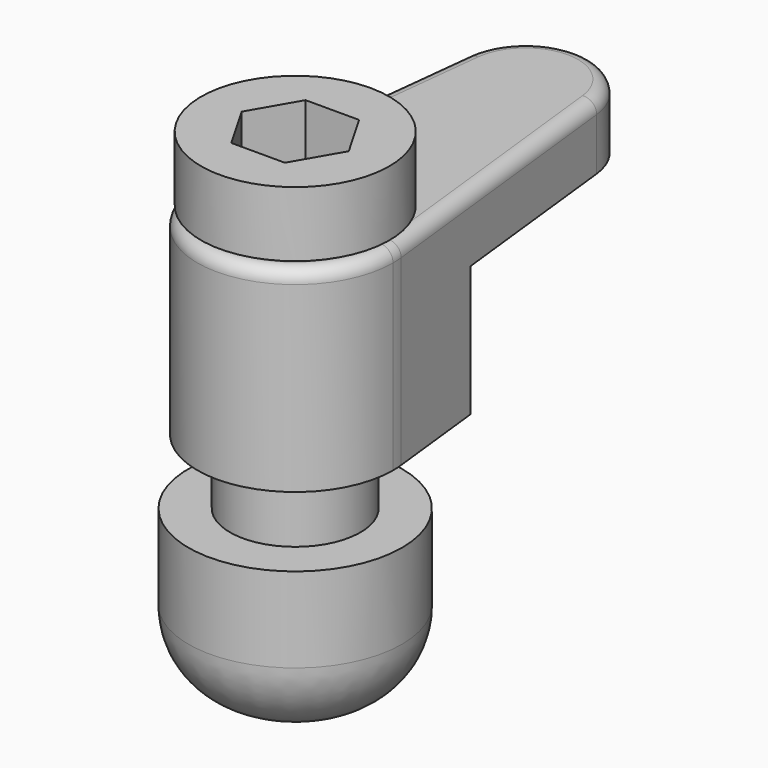
from build123d import *

# Parameters (mm, degrees)
F0_R          = 6.35
F1_DEPTH      = 19.05
F2_W          = 33.4682341514
F2_H          = 12.7
F3_DEPTH      = 25.4
F3_DEPTH_BACK = 25.4
F4_R          = 1.27
F8_DEPTH      = 5.08


with BuildPart() as f1:
    # F0 (on Top) → F1 (new body)
    with BuildSketch(Plane.XY):
        with BuildLine():
            Line((-9.2955619432, 2.0780166408), (-9.525, 0))
            ThreePointArc((-9.525, 0), (0, -9.525), (9.525, 0))
            ThreePointArc((9.525, 0), (9.5100605616, 0.5332664573), (9.4652891098, 1.0648601164))
            ThreePointArc((9.4652891098, 1.0648601164), (0.5136373852, 9.5111409219), (-9.2955619432, 2.0780166408))
        make_face()
        Circle(F0_R, mode=Mode.SUBTRACT)
        with BuildLine():
            ThreePointArc((-9.2955619432, 2.0780166408), (-9.4674667285, 1.0453223165), (-9.525, 0))
            Line((-9.525, 0), (-9.2955619432, 2.0780166408))
        make_face()
        with BuildLine():
            Line((-6.35, 28.7559218705), (-9.2955619432, 2.0780166408))
            ThreePointArc((-9.2955619432, 2.0780166408), (0.5136373852, 9.5111409219), (9.4652891098, 1.0648601164))
            Line((9.4652891098, 1.0648601164), (6.35, 28.7559218705))
            ThreePointArc((6.35, 28.7559218705), (0, 34.4315950223), (-6.35, 28.7559218705))
        make_face()
    extrude(amount=F1_DEPTH)

    # F2 (on Right) → F3 (cut, two sides)
    with BuildSketch(Plane.YZ) as f3_sk:
        with Locations((27.6411754268, 6.35)):
            Rectangle(F2_W, F2_H)
    extrude(amount=-F3_DEPTH, mode=Mode.SUBTRACT)
    extrude(f3_sk.sketch, amount=F3_DEPTH_BACK, mode=Mode.SUBTRACT)

    # F4
    f4_edges = [f1.edges().sort_by_distance(p)[0] for p in [
        (7.907645, 14.910391, 19.05),
        (0, 34.431595, 19.05),
        (-7.822781, 15.416969, 19.05),
        (-0.513637, -9.511141, 19.05),
    ]]
    fillet(f4_edges, radius=F4_R)


with BuildPart() as f6:
    # F5 (on Right) → F6 (revolve)
    with BuildSketch(Plane.YZ):
        Polygon((0, 25.9550701678), (0, -18.4949298322), (6.35, -18.4949298322), (6.35, 19.6050701678), (9.1697558698, 19.6050701678), (9.1697558698, 25.9550701678), align=None)
    revolve(axis=Axis((0, 0, 0.1489948481), (0, 0, -1)))

    # F7 (on face) → F8 (cut)
    with BuildSketch(Plane.XY.offset(25.9550701678)):
        Polygon((2.6074026246, -4.5161538215), (5.2148052491, 0), (2.6074026246, 4.5161538215), (-2.6074026246, 4.5161538215), (-5.2148052491, 0), (-2.6074026246, -4.5161538215), align=None)
    extrude(amount=-F8_DEPTH, mode=Mode.SUBTRACT)


with BuildPart() as f11:
    # F10 (on Front) → F11 (revolve)
    with BuildSketch(Plane.XZ):
        with BuildLine():
            ThreePointArc((2.6402827352, -22.2453791648), (8.1182939288, -20.0638530165), (10.3996366436, -14.6266535176))
            Line((10.3996366436, -14.6266535176), (10.3996366436, -6.35))
            Line((10.3996366436, -6.35), (4.7762921357, -6.35))
            Line((4.7762921357, -6.35), (4.7762921357, -13.1163768195))
            Line((4.7762921357, -13.1163768195), (0, -13.1163768195))
            Line((0, -13.1163768195), (0, -22.1970858235))
            Line((0, -22.1970858235), (2.6402827352, -22.2453791648))
        make_face()
    revolve(axis=Axis((0, 0, 0.4469826818), (0, 0, 1)))


solid = Compound([f1.part, f6.part, f11.part])
